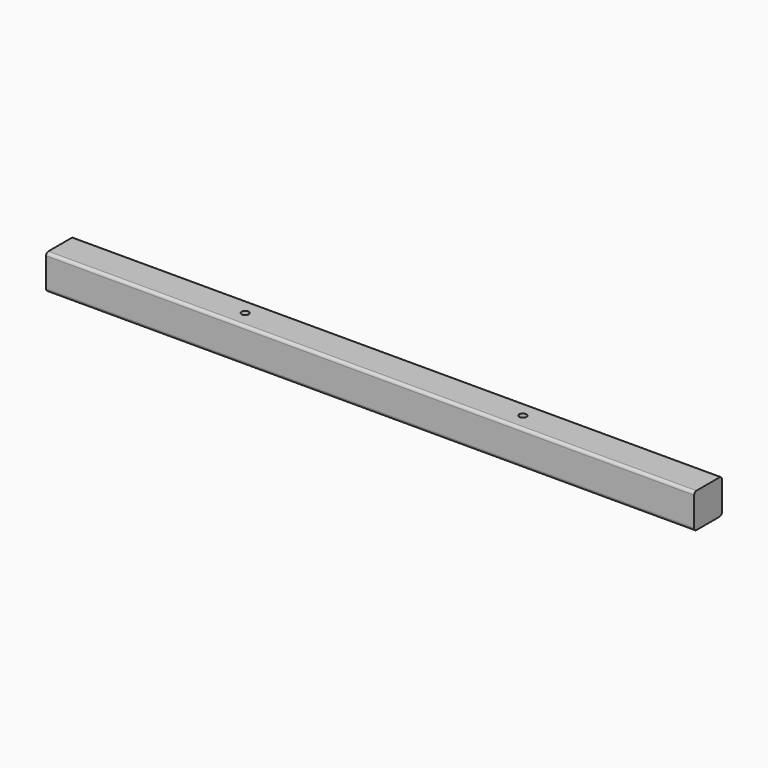
from build123d import *

# Parameters (mm, degrees)
CYLINDER_R                 = 3.96875
CYLINDER_DEPTH             = 50.8
EXTRUDE014_DEPTH           = 711.2
EXTRUDE014_ROLL_ANGLE      = -90
EXTRUDE014_PLACEMENT_ANGLE = -90
LINK003_ROLL_ANGLE         = -179.999993
LINK003_PITCH_ANGLE        = 7e-06


with BuildPart() as cylinder:
    # Cylinder → Cylinder (new body)
    with BuildSketch(Plane(origin=(381, 203.2, 16.66875), x_dir=(1, 0, 0), z_dir=(0, 0, 1))):
        Circle(CYLINDER_R)
    extrude(amount=CYLINDER_DEPTH)


with BuildPart() as cylinder005:
    # Link063 base: copy of Cylinder
    add(cylinder.part)


with BuildPart() as cylinder005_1:
    # Link063 placement: moved
    add(cylinder005.part.moved(Location((177.800232, 577.85011, -3.968745))))


with BuildPart() as cylinder004:
    # Link062 base: copy of Cylinder
    add(cylinder.part)


with BuildPart() as cylinder004_1:
    # Link062 placement: moved
    add(cylinder004.part.moved(Location((-126.999817, 577.850354, -3.968746))))


with BuildPart() as baffle_frame_b:
    # Sketch014 → Extrude014 (new body)
    with BuildSketch(Plane.XY):
        with BuildLine():
            Line((0, 34.925), (0, 3.175))
            ThreePointArc((0, 3.175), (0.929936, 0.929936), (3.175, 0))
            Line((34.925, 0), (3.175, 0))
            ThreePointArc((34.925, 0), (37.170064, 0.929936), (38.1, 3.175))
            Line((38.1, 34.925), (38.1, 3.175))
            ThreePointArc((38.1, 34.925), (37.170064, 37.170064), (34.925, 38.1))
            Line((3.175, 38.1), (34.925, 38.1))
            ThreePointArc((3.175, 38.1), (0.929936, 37.170064), (0, 34.925))
        make_face()
    extrude(amount=EXTRUDE014_DEPTH)


with BuildPart() as baffle_frame_b_1:
    # Extrude014 roll: moved
    add(baffle_frame_b.part.rotate(Axis((0, 0, 0), (1, 0, 0)), EXTRUDE014_ROLL_ANGLE))


with BuildPart() as baffle_frame_b_2:
    # Extrude014 placement: moved
    add(baffle_frame_b_1.part.moved(Location((50.8, 800.1, 196.85))).rotate(Axis((50.8, 800.1, 196.85), (0, 0, 1)), EXTRUDE014_PLACEMENT_ANGLE))


with BuildPart() as baffle_frame_b_3:
    # Link003 roll: moved
    add(baffle_frame_b_2.part.rotate(Axis((0, 0, 0), (1, 0, 0)), LINK003_ROLL_ANGLE))


with BuildPart() as baffle_frame_b_4:
    # Link003 pitch: moved
    add(baffle_frame_b_3.part.rotate(Axis((0, 0, 0), (0, 1, 0)), LINK003_PITCH_ANGLE))


with BuildPart() as baffle_frame_b_5:
    # Link003 placement: moved
    add(baffle_frame_b_4.part.moved(Location((3e-05, 1562.099977, 215.900066))))

    # Cut004: cut Cylinder004
    add(cylinder004_1.part, mode=Mode.SUBTRACT)

    # Cut005: cut Cylinder005
    add(cylinder005_1.part, mode=Mode.SUBTRACT)


solid = baffle_frame_b_5.part
